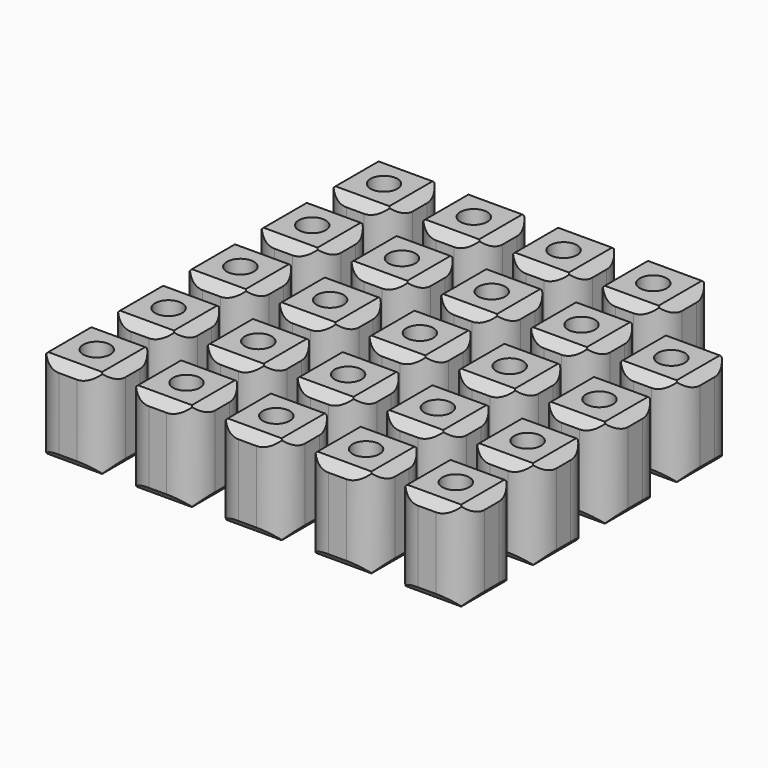
from build123d import *

# Parameters (mm, degrees)
F0_W     = 8
F0_H     = 8
F1_DEPTH = 10
F2_R     = 1.5
F3_DEPTH = 10
F4_SIZE  = 1
F5_R     = 3


with BuildPart() as f1:
    # F0 (on Top) → F1 (new body)
    with BuildSketch(Plane.XY):
        with Locations((-6.334659, 5.593914)):
            Rectangle(F0_W, F0_H)
    extrude(amount=F1_DEPTH)

    # F2 (on face) → F3 (cut)
    with BuildSketch(Plane.XY):
        with Locations((-6.334659, 5.593914)):
            Circle(F2_R)
    extrude(amount=F3_DEPTH, mode=Mode.SUBTRACT)

    # F4
    f4_edges = [f1.edges().sort_by_distance(p)[0] for p in [
        (-2.334659, 5.593914, 0),
        (-6.334659, 9.593914, 0),
        (-10.334659, 5.593914, 0),
        (-6.334659, 1.593914, 0),
        (-2.334659, 5.593914, 10),
        (-6.334659, 9.593914, 10),
        (-10.334659, 5.593914, 10),
        (-6.334659, 1.593914, 10),
    ]]
    chamfer(f4_edges, length=F4_SIZE)

    # F5
    f5_edges = [f1.edges().sort_by_distance(p)[0] for p in [
        (-10.334659, 1.593914, 5),
        (-2.334659, 1.593914, 5),
        (-10.334659, 9.593914, 5),
        (-2.334659, 9.593914, 5),
    ]]
    fillet(f5_edges, radius=F5_R)


with BuildPart() as f6_1:
    # F6: copy of F1
    add(f1.part.moved(Location((10, 0, 0))))


with BuildPart() as f7_1:
    # F7: copy of F1
    add(f1.part.moved(Location((20, 0, 0))))


with BuildPart() as f8_1:
    # F8: copy of F1
    add(f1.part.moved(Location((30, 0, 0))))


with BuildPart() as f9_1:
    # F9: copy of F1
    add(f1.part.moved(Location((40, 0, 0))))


with BuildPart() as f10_1:
    # F10: copy of F1
    add(f1.part.moved(Location((0, 10, 0))))


with BuildPart() as f11_1:
    # F11: copy of F10_1
    add(f10_1.part.moved(Location((10, 0, 0))))


with BuildPart() as f12_1:
    # F12: copy of F11_1
    add(f11_1.part.moved(Location((10, 0, 0))))


with BuildPart() as f13_1:
    # F13: copy of F12_1
    add(f12_1.part.moved(Location((19, 0, 0))))


with BuildPart() as f15_1:
    # F15: copy of F12_1
    add(f12_1.part.moved(Location((10, 0, 0))))


with BuildPart() as f16_1:
    # F16: copy of F15_1
    add(f15_1.part.moved(Location((10, 0, 0))))


with BuildPart() as f17_1:
    # F17: copy of F10_1
    add(f10_1.part.moved(Location((0, 10, 0))))


with BuildPart() as f18_1:
    # F18: copy of F17_1
    add(f17_1.part.moved(Location((10, 0, 0))))


with BuildPart() as f19_1:
    # F19: copy of F18_1
    add(f18_1.part.moved(Location((10, 0, 0))))


with BuildPart() as f20_1:
    # F20: copy of F19_1
    add(f19_1.part.moved(Location((10, 0, 0))))


with BuildPart() as f21_1:
    # F21: copy of F20_1
    add(f20_1.part.moved(Location((10, 0, 0))))


with BuildPart() as f22_1:
    # F22: copy of F17_1
    add(f17_1.part.moved(Location((0, 10, 0))))


with BuildPart() as f23_1:
    # F23: copy of F22_1
    add(f22_1.part.moved(Location((10, 0, 0))))


with BuildPart() as f24_1:
    # F24: copy of F23_1
    add(f23_1.part.moved(Location((10, 0, 0))))


with BuildPart() as f25_1:
    # F25: copy of F24_1
    add(f24_1.part.moved(Location((10, 0, 0))))


with BuildPart() as f26_1:
    # F26: copy of F25_1
    add(f25_1.part.moved(Location((10, 0, 0))))


with BuildPart() as f27_1:
    # F27: copy of F22_1
    add(f22_1.part.moved(Location((0, 10, 0))))


with BuildPart() as f28_1:
    # F28: copy of F27_1
    add(f27_1.part.moved(Location((10, 0, 0))))


with BuildPart() as f29_1:
    # F29: copy of F28_1
    add(f28_1.part.moved(Location((10, 0, 0))))


with BuildPart() as f30_1:
    # F30: copy of F29_1
    add(f29_1.part.moved(Location((10, 0, 0))))


solid = Compound([f1.part, f6_1.part, f7_1.part, f8_1.part, f9_1.part, f10_1.part, f11_1.part, f12_1.part, f15_1.part, f16_1.part, f17_1.part, f18_1.part, f19_1.part, f20_1.part, f21_1.part, f22_1.part, f23_1.part, f24_1.part, f25_1.part, f26_1.part, f27_1.part, f28_1.part, f29_1.part, f30_1.part])
